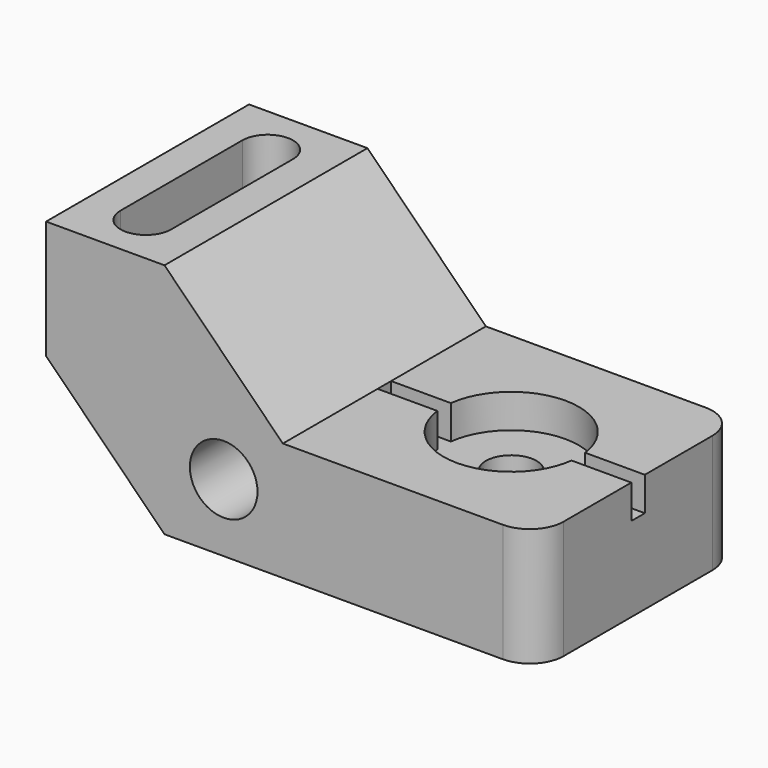
from build123d import *

# Parameters (mm, degrees)
F0_W      = 147.32
F0_H      = 76.2
F1_DEPTH  = 71.12
F2_R      = 10.16
F3_R      = 10.16
F4_DEPTH  = 76.201
F6_DEPTH  = 27.94
F7_R      = 7.62
F8_DEPTH  = 35.561
F10_DEPTH = 10.16


with BuildPart() as f1:
    # F0 (on Top) → F1 (new body)
    with BuildSketch(Plane.XY):
        with Locations((73.66, -38.1)):
            Rectangle(F0_W, F0_H)
    extrude(amount=F1_DEPTH)

    # F2
    f2_edges = [f1.edges().sort_by_distance(p)[0] for p in [
        (147.32, 0, 35.56),
        (147.32, -76.2, 35.56),
    ]]
    fillet(f2_edges, radius=F2_R)

    # F3 (on face) → F4 (cut, through all)
    with BuildSketch(Plane.XZ.offset(76.2)):
        Polygon((35.56, 0), (0, 35.56), (0, 0), align=None)
        Polygon((147.32, 71.12), (35.56, 71.12), (71.12, 35.56), (147.32, 35.56), align=None)
        with Locations((53.34, 20.32)):
            Circle(F3_R)
    extrude(amount=-F4_DEPTH, mode=Mode.SUBTRACT)

    # F5 (on face) → F6 (cut)
    with BuildSketch(Plane.XY.offset(71.12)):
        with BuildLine():
            Line((25.4, -60.96), (25.4, -15.24))
            ThreePointArc((25.4, -15.24), (17.78, -7.62), (10.16, -15.24))
            Line((10.16, -15.24), (10.16, -60.96))
            ThreePointArc((10.16, -60.96), (17.78, -68.58), (25.4, -60.96))
        make_face()
    extrude(amount=-F6_DEPTH, mode=Mode.SUBTRACT)

    # F7 (on face) → F8 (cut, through all)
    with BuildSketch(Plane.XY.offset(35.56)):
        with Locations((109.22, -38.1)):
            Circle(F7_R)
    extrude(amount=-F8_DEPTH, mode=Mode.SUBTRACT)

    # F9 (on face) → F10 (cut)
    with BuildSketch(Plane.XY.offset(35.56)):
        with BuildLine():
            ThreePointArc((129.3806249903, -40.64), (129.5001171077, -39.3724975829), (129.54, -38.1))
            ThreePointArc((129.54, -38.1), (129.5001171077, -36.8275024171), (129.3806249903, -35.56))
            Line((129.3806249903, -35.56), (89.0593750097, -35.56))
            ThreePointArc((89.0593750097, -35.56), (88.9, -38.1), (89.0593750097, -40.64))
            Line((89.0593750097, -40.64), (129.3806249903, -40.64))
        make_face()
        with BuildLine():
            ThreePointArc((129.3806249903, -35.56), (129.5001171077, -36.8275024171), (129.54, -38.1))
            ThreePointArc((129.54, -38.1), (129.5001171077, -39.3724975829), (129.3806249903, -40.64))
            Line((129.3806249903, -40.64), (147.32, -40.64))
            Line((147.32, -40.64), (147.32, -35.56))
            Line((147.32, -35.56), (129.3806249903, -35.56))
        make_face()
        with BuildLine():
            Line((89.0593750097, -35.56), (129.3806249903, -35.56))
            ThreePointArc((129.3806249903, -35.56), (109.22, -17.78), (89.0593750097, -35.56))
        make_face()
        with BuildLine():
            ThreePointArc((89.0593750097, -40.64), (109.22, -58.42), (129.3806249903, -40.64))
            Line((129.3806249903, -40.64), (89.0593750097, -40.64))
        make_face()
        with BuildLine():
            ThreePointArc((89.0593750097, -40.64), (88.9, -38.1), (89.0593750097, -35.56))
            Line((89.0593750097, -35.56), (71.12, -35.56))
            Line((71.12, -35.56), (71.12, -40.64))
            Line((71.12, -40.64), (89.0593750097, -40.64))
        make_face()
    extrude(amount=-F10_DEPTH, mode=Mode.SUBTRACT)


solid = f1.part
